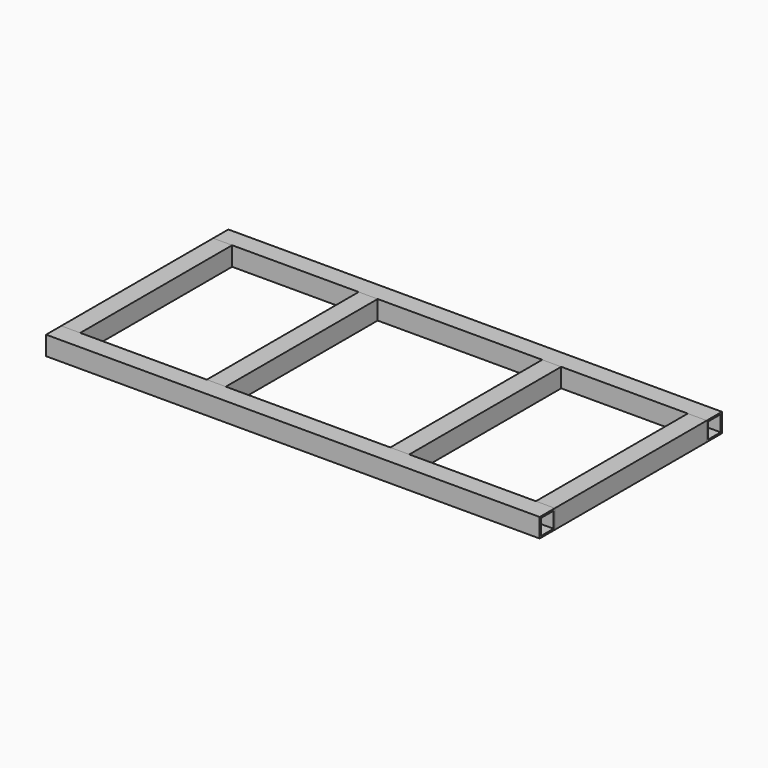
from build123d import *

# Parameters (mm, degrees)
F0_W     = 76.2
F0_H     = 76.2
F0_W_2   = 63.5
F0_H_2   = 63.5
F1_DEPTH = 1981.2
F3_W     = 76.2
F3_H     = 76.2
F3_W_2   = 63.5
F3_H_2   = 63.5
F4_DEPTH = 762


with BuildPart() as f1:
    # F0 (on Right) → F1 (new body)
    with BuildSketch(Plane.YZ):
        with Locations((38.1, 38.1)):
            Rectangle(F0_W, F0_H)
        with Locations((38.1, 38.1)):
            Rectangle(F0_W_2, F0_H_2, mode=Mode.SUBTRACT)
    extrude(amount=F1_DEPTH)


with BuildPart() as f2_1:
    # F2: copy of F1
    add(f1.part.moved(Location((0, 838.2, 0))))


with BuildPart() as f4:
    # F3 (on Front) → F4 (new body)
    with BuildSketch(Plane.XZ):
        with Locations((38.1, 38.1)):
            Rectangle(F3_W, F3_H)
        with Locations((38.1, 38.1)):
            Rectangle(F3_W_2, F3_H_2, mode=Mode.SUBTRACT)
    extrude(amount=-F4_DEPTH)


with BuildPart() as f4_1:
    # F5: moved
    add(f4.part.moved(Location((0, 76.2, 0))))


with BuildPart() as f6_1:
    # F6: copy of F4
    add(f4_1.part.moved(Location((584.2, 0, 0))))


with BuildPart() as f7_1:
    # F7: copy of F6_1
    add(f6_1.part.moved(Location((736.6, 0, 0))))


with BuildPart() as f8_1:
    # F8: copy of F7_1
    add(f7_1.part.moved(Location((584.2, 0, 0))))


solid = Compound([f1.part, f2_1.part, f4_1.part, f6_1.part, f7_1.part, f8_1.part])
